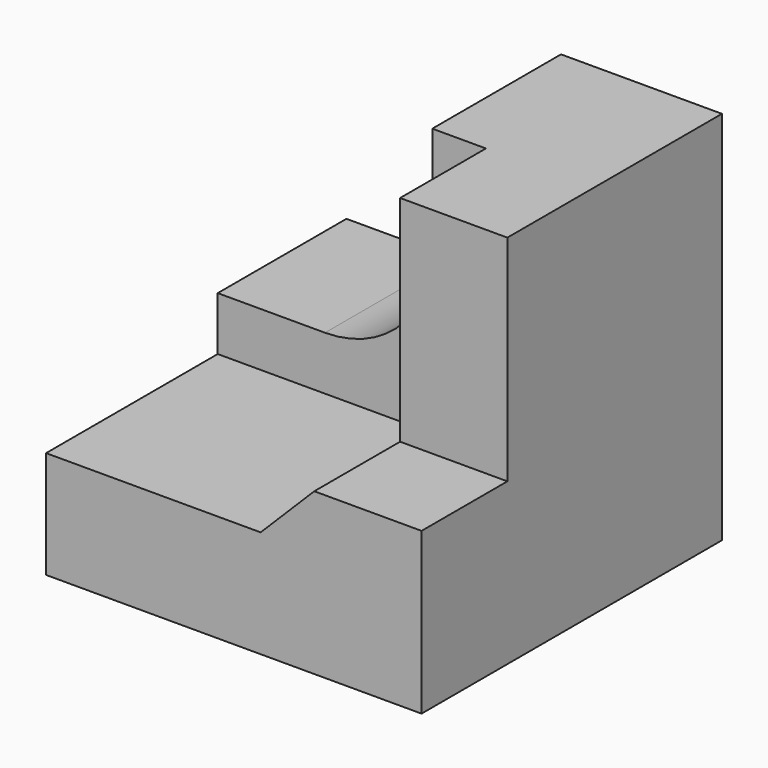
from build123d import *

# Parameters (mm, degrees)
F0_W     = 70
F0_H     = 70
F1_DEPTH = 70
F2_W     = 50
F2_H     = 40
F3_DEPTH = 50
F4_W     = 40
F4_H     = 40
F5_DEPTH = 30.001
F6_R     = 20
F7_W     = 20
F7_H     = 40
F8_DEPTH = 20.001
F9_SIZE  = 10


with BuildPart() as f1:
    # F0 (on Top) → F1 (new body)
    with BuildSketch(Plane.XY):
        with Locations((35, 35)):
            Rectangle(F0_W, F0_H)
    extrude(amount=F1_DEPTH)

    # F2 (on face) → F3 (cut)
    with BuildSketch(Plane.XY.offset(70)):
        with Locations((25, 20)):
            Rectangle(F2_W, F2_H)
    extrude(amount=-F3_DEPTH, mode=Mode.SUBTRACT)

    # F4 (on face) → F5 (cut, through all)
    with BuildSketch(Plane.XZ.offset(-40)):
        with Locations((20, 50)):
            Rectangle(F4_W, F4_H)
    extrude(amount=-F5_DEPTH, mode=Mode.SUBTRACT)

    # F6
    f6_edges = [f1.edges().sort_by_distance(p)[0] for p in [
        (40, 55, 30),
    ]]
    fillet(f6_edges, radius=F6_R)

    # F7 (on face) → F8 (cut, through all)
    with BuildSketch(Plane(origin=(50, 0, 0), x_dir=(0, -1, 0), z_dir=(-1, 0, 0))):
        with Locations((-10, 50)):
            Rectangle(F7_W, F7_H)
    extrude(amount=-F8_DEPTH, mode=Mode.SUBTRACT)

    # F9
    f9_edges = [f1.edges().sort_by_distance(p)[0] for p in [
        (50, 20, 20),
    ]]
    chamfer(f9_edges, length=F9_SIZE)


solid = f1.part
